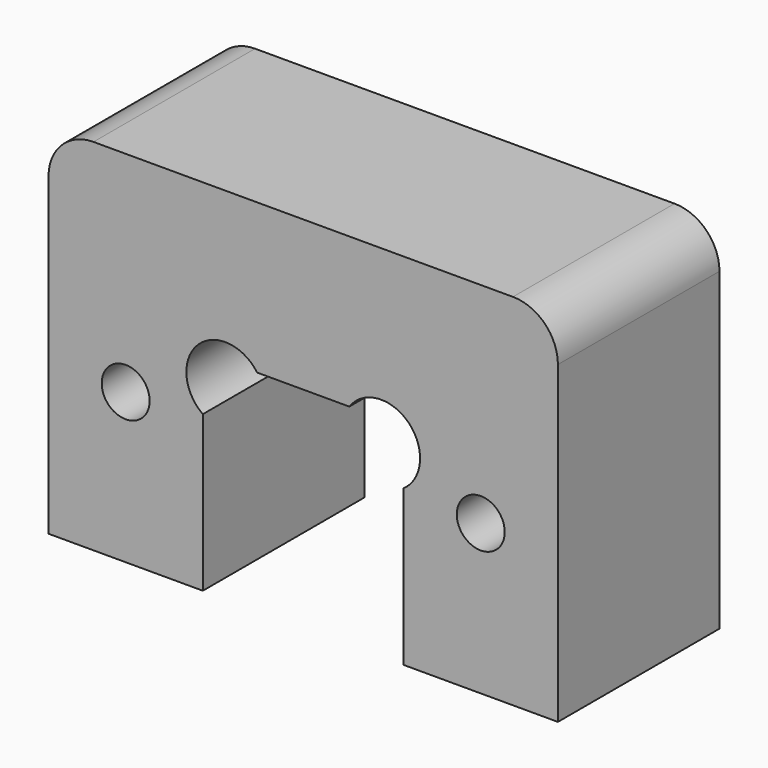
from build123d import *

# Parameters (mm, degrees)
F0_W     = 5.15
F0_H     = 7
F1_DEPTH = 6.74
F2_R     = 1.3
F3_DEPTH = 25
F4_R     = 0.8
F5_DEPTH = 6.741


with BuildPart() as f1:
    # F0 (on Front) → F1 (new body)
    with BuildSketch(Plane.XZ):
        with BuildLine():
            Line((7, 2.5), (-7, 2.5))
            ThreePointArc((-7, 2.5), (-8.06066, 2.06066), (-8.5, 1))
            Line((-8.5, 1), (-8.5, -2.5))
            Line((-8.5, -2.5), (-3.35, -2.5))
            Line((-3.35, -2.5), (3.35, -2.5))
            Line((3.35, -2.5), (8.5, -2.5))
            Line((8.5, -2.5), (8.5, 1))
            ThreePointArc((8.5, 1), (8.06066, 2.06066), (7, 2.5))
        make_face()
        with Locations((-5.925, -6)):
            Rectangle(F0_W, F0_H)
        with Locations((5.925, -6)):
            Rectangle(F0_W, F0_H)
    extrude(amount=F1_DEPTH)

    # F2 (on face) → F3 (cut)
    with BuildSketch(Plane.XZ.offset(6.74)):
        with Locations((-2.6, -3.25)):
            Circle(F2_R)
        with Locations((2.6, -3.25)):
            Circle(F2_R)
    extrude(amount=-F3_DEPTH, mode=Mode.SUBTRACT)

    # F4 (on face) → F5 (cut, through all)
    with BuildSketch(Plane.XZ.offset(6.74)):
        with Locations((-5.925, -4.5)):
            Circle(F4_R)
        with Locations((5.925, -4.5)):
            Circle(F4_R)
    extrude(amount=-F5_DEPTH, mode=Mode.SUBTRACT)


solid = f1.part
